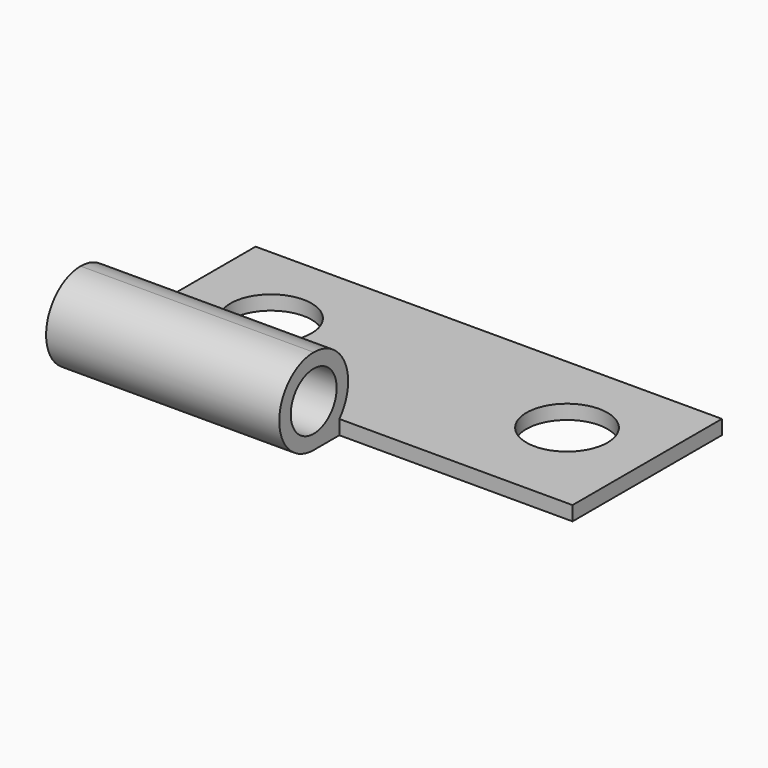
from build123d import *

# Parameters (mm, degrees)
F0_R     = 0.8
F1_DEPTH = 13
F2_R     = 0.8
F3_DEPTH = 6.5
F4_R     = 1.13
F5_DEPTH = 0.4


with BuildPart() as f1:
    # F0 (on Right) → F1 (new body)
    with BuildSketch(Plane.YZ):
        with BuildLine():
            ThreePointArc((0, 2.4), (-1.2, 1.2), (0, 0))
            Line((0, 0), (6.1, 0))
            Line((6.1, 0), (6.1, 0.4))
            Line((6.1, 0.4), (0.894427, 0.4))
            ThreePointArc((0.894427, 0.4), (1.095445, 1.689898), (0, 2.4))
        make_face()
        with Locations((0, 1.2)):
            Circle(F0_R, mode=Mode.SUBTRACT)
    extrude(amount=F1_DEPTH)

    # F2 (on face) → F3 (cut)
    with BuildSketch(Plane.YZ.offset(13)):
        with BuildLine():
            Line((0.894427, 0), (0.894427, 0.4))
            ThreePointArc((0.894427, 0.4), (-0.489898, 2.295445), (0, 0))
            Line((0, 0), (0.894427, 0))
        make_face()
        with Locations((0, 1.2)):
            Circle(F2_R, mode=Mode.SUBTRACT)
    extrude(amount=-F3_DEPTH, mode=Mode.SUBTRACT)

    # F4 (on face) → F5 (cut, through all)
    with BuildSketch(Plane.XY.offset(0.4)):
        with Locations((2.375, 3.67)):
            Circle(F4_R)
        with Locations((10.625, 3.67)):
            Circle(F4_R)
    extrude(amount=-F5_DEPTH, mode=Mode.SUBTRACT)


solid = f1.part
